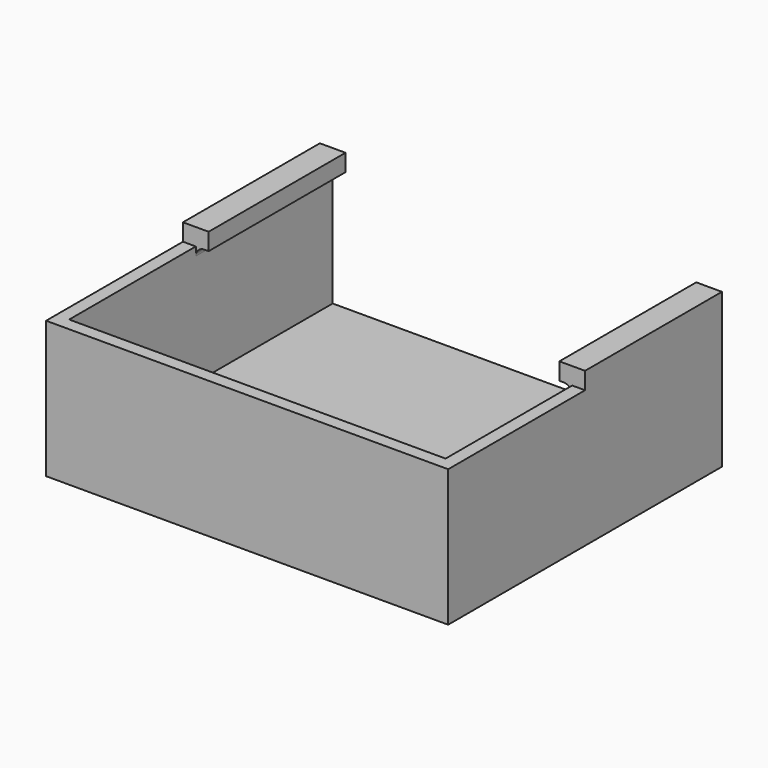
from build123d import *

# Parameters (mm, degrees)
SKETCH_W      = 47
SKETCH_H      = 40
SKETCH_R      = 2
PAD_DEPTH     = 2
PAD001_DEPTH  = 14
SKETCH002_W   = 3
SKETCH002_H   = 20
PAD002_DEPTH  = 2
FILLET_R      = 1
FILLET001_R   = 1
CHAMFER_ANGLE = 45
CHAMFER_SIZE  = 1


with BuildPart() as part:
    # Sketch → Pad (new body)
    with BuildSketch(Plane.XY):
        Rectangle(SKETCH_W, SKETCH_H)
        with Locations((-18.485281, -14.985281)):
            Circle(SKETCH_R, mode=Mode.SUBTRACT)
        with Locations((18.485281, -14.985281)):
            Circle(SKETCH_R, mode=Mode.SUBTRACT)
    extrude(amount=PAD_DEPTH)

    # Sketch001 (on Face8 of Pad) → Pad001 (join)
    with BuildSketch(Plane.XY.offset(2)):
        Polygon((-23.5, -20), (23.5, -20), (23.5, 20), (22, 20), (22, -18.5), (-22, -18.5), (-22, 20), (-23.5, 20), align=None)
    extrude(amount=PAD001_DEPTH)

    # Sketch002 (on Face14 of Pad001) → Pad002 (join)
    with BuildSketch(Plane.XY.offset(16)):
        with Locations((-22, 10)):
            Rectangle(SKETCH002_W, SKETCH002_H)
        with Locations((22, 10)):
            Rectangle(SKETCH002_W, SKETCH002_H)
    extrude(amount=PAD002_DEPTH)

    # Fillet
    fillet_edges = [part.edges().sort_by_distance(p)[0] for p in [
        (22, 10, 16),
    ]]
    fillet(fillet_edges, radius=FILLET_R)

    # Fillet001
    fillet001_edges = [part.edges().sort_by_distance(p)[0] for p in [
        (-22, 10, 16),
    ]]
    fillet(fillet001_edges, radius=FILLET001_R)

    # Chamfer
    chamfer_edges = [part.edges().sort_by_distance(p)[0] for p in [
        (16.485281, -14.985281, 2),
        (-20.485281, -14.985281, 2),
    ]]
    chamfer_side = part.faces().sort_by_distance((0, 0.98697, 2))[0]
    chamfer(chamfer_edges, length=CHAMFER_SIZE, angle=CHAMFER_ANGLE, reference=chamfer_side)


solid = part.part
